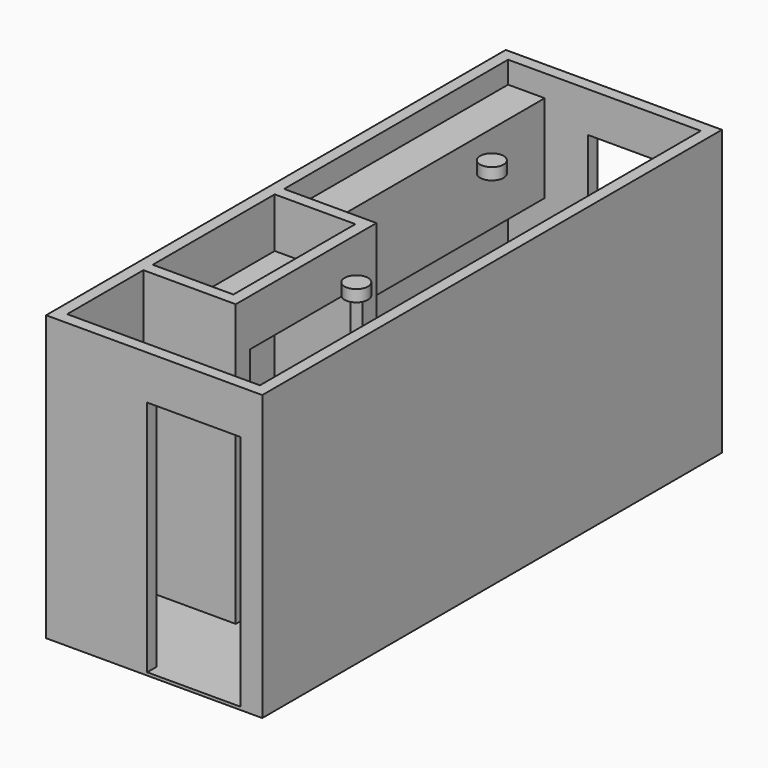
from build123d import *

# Parameters (mm, degrees)
F0_W      = 1873.25
F0_H      = 4978.4
F0_W_2    = 1670.05
F0_H_2    = 4775.2
F1_DEPTH  = 2438.4
F2_W      = 806.45
F2_H      = 2057.4
F3_DEPTH  = 101.6
F4_W      = 895.35
F4_H      = 914.4
F5_DEPTH  = 101.6
F6_W      = 1873.25
F6_H      = 4978.4
F6_W_2    = 254
F6_H_2    = 101.6
F7_DEPTH  = 25.4
F9_DEPTH  = 2438.4
F10_W     = 1219.2
F10_H     = 406.4
F11_DEPTH = 101.6
F12_W     = 635
F12_H     = 685.8
F13_DEPTH = 914.4
F14_W     = 546.1
F14_H     = 584.2
F15_DEPTH = 863.6
F17_W     = 2425.7
F17_H     = 762
F18_DEPTH = 317.5
F16_W     = 520.7
F16_H     = 558.8
F19_DEPTH = 533.4
F20_W     = 825.5
F20_H     = 19.05
F21_DEPTH = 400.05
F22_W     = 825.5
F22_H     = 19.05
F23_DEPTH = 266.7
F24_W     = 1320.8
F24_H     = 19.05
F25_DEPTH = 304.8
F26_W     = 1320.8
F26_H     = 19.05
F27_DEPTH = 419.1
F28_W     = 76.2
F28_H     = 114.3
F29_DEPTH = 6.35
F30_R     = 101.6
F31_DEPTH = 101.6


with BuildPart() as f1:
    # F0 (on Top) → F1 (new body)
    with BuildSketch(Plane.XY):
        with Locations((-835.025, 2387.6)):
            Rectangle(F0_W, F0_H)
        with Locations((-835.025, 2387.6)):
            Rectangle(F0_W_2, F0_H_2, mode=Mode.SUBTRACT)
    extrude(amount=F1_DEPTH)

    # F2 (on face) → F3 (cut, through all)
    with BuildSketch(Plane.XZ.offset(101.6)):
        with Locations((-492.125, 1028.7)):
            Rectangle(F2_W, F2_H)
    extrude(amount=-F3_DEPTH, mode=Mode.SUBTRACT)

    # F4 (on face) → F5 (cut, through all)
    with BuildSketch(Plane.XZ.offset(-4775.2)):
        with Locations((-530.225, 1631.95)):
            Rectangle(F4_W, F4_H)
    extrude(amount=-F5_DEPTH, mode=Mode.SUBTRACT)

    # F6 (on face) → F7 (join)
    with BuildSketch(Plane(origin=(0, 0, 0), x_dir=(1, 0, 0), z_dir=(0, 0, -1))):
        with Locations((-835.025, -2387.6)):
            Rectangle(F6_W, F6_H)
        with Locations((-1060.45, -2489.2)):
            Rectangle(F6_W_2, F6_H_2, mode=Mode.SUBTRACT)
    extrude(amount=F7_DEPTH)

    # F8 (on face) → F9 (join, through all)
    with BuildSketch(Plane.XY):
        Polygon((-1670.05, 927.1), (-1670.05, 825.5), (-869.95, 825.5), (-869.95, 977.9), (-971.55, 977.9), (-971.55, 927.1), align=None)
        Polygon((-1670.05, 2349.5), (-1670.05, 2247.9), (-971.55, 2247.9), (-971.55, 2197.1), (-869.95, 2197.1), (-869.95, 2349.5), align=None)
    extrude(amount=F9_DEPTH)

    # F10 (on face) → F11 (join, through all)
    with BuildSketch(Plane.YZ.offset(-869.95)):
        with Locations((1587.5, 2235.2)):
            Rectangle(F10_W, F10_H)
    extrude(amount=-F11_DEPTH)

    # F20 (on face) → F21 (join)
    with BuildSketch(Plane.YZ.offset(-1670.05)):
        with Locations((412.75, 1870.075)):
            Rectangle(F20_W, F20_H)
    extrude(amount=F21_DEPTH)

    # F22 (on face) → F23 (join)
    with BuildSketch(Plane.YZ.offset(-1670.05)):
        with Locations((412.75, 1603.375)):
            Rectangle(F22_W, F22_H)
    extrude(amount=F23_DEPTH)

    # F24 (on face) → F25 (join)
    with BuildSketch(Plane.YZ.offset(-1670.05)):
        with Locations((1587.5, 1997.075)):
            Rectangle(F24_W, F24_H)
    extrude(amount=F25_DEPTH)

    # F26 (on face) → F27 (join)
    with BuildSketch(Plane.YZ.offset(-1670.05)):
        with Locations((1587.5, 1768.475)):
            Rectangle(F26_W, F26_H)
    extrude(amount=F27_DEPTH)


with BuildPart() as f13:
    # F12 (on face) → F13 (new body)
    with BuildSketch(Plane.XY):
        with Locations((-1225.55, 4381.5)):
            Rectangle(F12_W, F12_H)
        with Locations((-1225.55, 3670.3)):
            Rectangle(F12_W, F12_H)
    extrude(amount=F13_DEPTH)


with BuildPart() as f15:
    # F14 (on face) → F15 (new body)
    with BuildSketch(Plane.XY):
        with Locations((-1371.6, 2844.8)):
            Rectangle(F14_W, F14_H)
    extrude(amount=F15_DEPTH)

    # F16 (on face) → F19 (cut)
    with BuildSketch(Plane.XY.offset(863.6)):
        with Locations((-1371.6, 2844.8)):
            Rectangle(F16_W, F16_H)
    extrude(amount=-F19_DEPTH, mode=Mode.SUBTRACT)


with BuildPart() as f18:
    # F17 (on face) → F18 (new body)
    with BuildSketch(Plane.YZ.offset(-1670.05)):
        with Locations((3562.35, 1866.9)):
            Rectangle(F17_W, F17_H)
    extrude(amount=F18_DEPTH)


with BuildPart() as f29:
    # F28 (on face) → F29 (new body)
    with BuildSketch(Plane(origin=(0, 0, 0), x_dir=(-1, 0, 0), z_dir=(0, 1, 0))):
        with Locations((1047.75, 1225.55)):
            Rectangle(F28_W, F28_H)
    extrude(amount=F29_DEPTH)


with BuildPart() as f31:
    # F30 (on face) → F31 (new body)
    with BuildSketch(Plane.XY.offset(2438.4)):
        with Locations((-835.025, 3556)):
            Circle(F30_R)
        with Locations((-434.975, 1587.5)):
            Circle(F30_R)
    extrude(amount=-F31_DEPTH)


solid = Compound([f1.part, f13.part, f15.part, f18.part, f29.part, f31.part])
